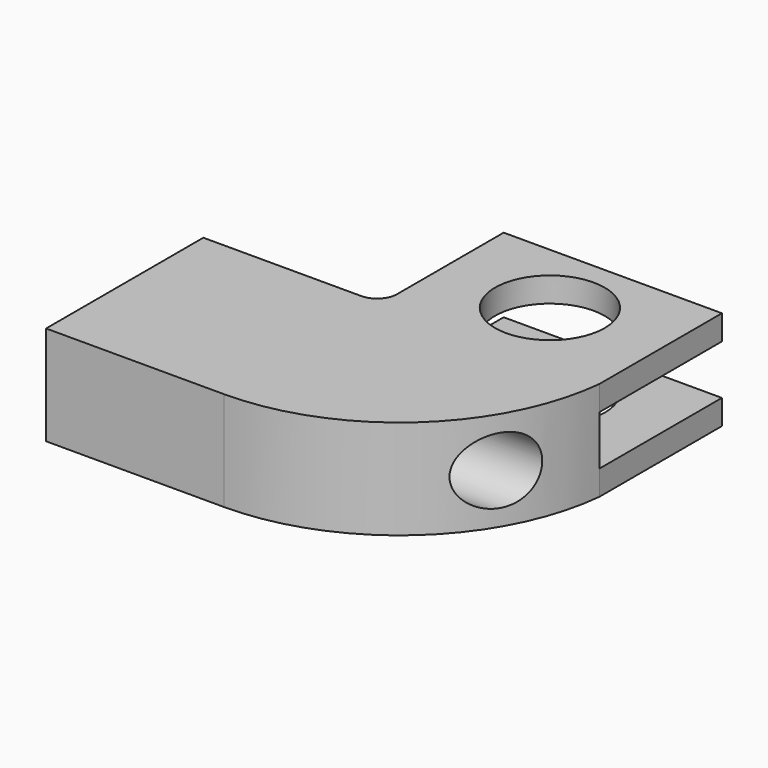
from build123d import *

# Parameters (mm, degrees)
F0_W     = 55.8020919561
F0_H     = 39.1723364592
F0_R     = 14.0094122965
F1_DEPTH = 12.7
F2_DEPTH = 6.35
F3_R     = 5.08
F4_R     = 5.08
F5_R     = 8.4755986108
F6_DEPTH = 125.9534060955


with BuildPart() as f1:
    # F0 (on Top) → F1 (new body, symmetric)
    with BuildSketch(Plane.XY):
        with BuildLine():
            Line((0, 22.542566061), (-45.4546958208, 22.542566061))
            Line((-45.4546958208, 22.542566061), (-45.4546958208, -27.7162790298))
            Line((-45.4546958208, -27.7162790298), (0, -27.7162790298))
            ThreePointArc((0, -27.7162790298), (37.5493840713, -13.2993479579), (55.8020919561, 22.542566061))
            Line((55.8020919561, 22.542566061), (0, 22.542566061))
        make_face()
        with Locations((27.9010459781, 42.1287342906)):
            Rectangle(F0_W, F0_H)
        with Locations((27.5138542056, 42.0944318175)):
            Circle(F0_R, mode=Mode.SUBTRACT)
    extrude(amount=F1_DEPTH, both=True)

    # F0 (on Top) → F2 (cut, symmetric)
    with BuildSketch(Plane.XY):
        with Locations((27.9010459781, 42.1287342906)):
            Rectangle(F0_W, F0_H)
        with Locations((27.5138542056, 42.0944318175)):
            Circle(F0_R, mode=Mode.SUBTRACT)
    extrude(amount=F2_DEPTH, both=True, mode=Mode.SUBTRACT)

    # F3
    f3_edges = [f1.edges().sort_by_distance(p)[0] for p in [
        (0, 22.542566, 9.525),
    ]]
    fillet(f3_edges, radius=F3_R)

    # F4
    f4_edges = [f1.edges().sort_by_distance(p)[0] for p in [
        (0, 22.542566, -9.525),
    ]]
    fillet(f4_edges, radius=F4_R)

    # F5 (on face) → F6 (cut)
    with BuildSketch(Plane(origin=(-45.4546958208, 0, 0), x_dir=(0, -1, 0), z_dir=(-1, 0, 0))):
        Circle(F5_R)
    extrude(amount=-F6_DEPTH, mode=Mode.SUBTRACT)


solid = f1.part
